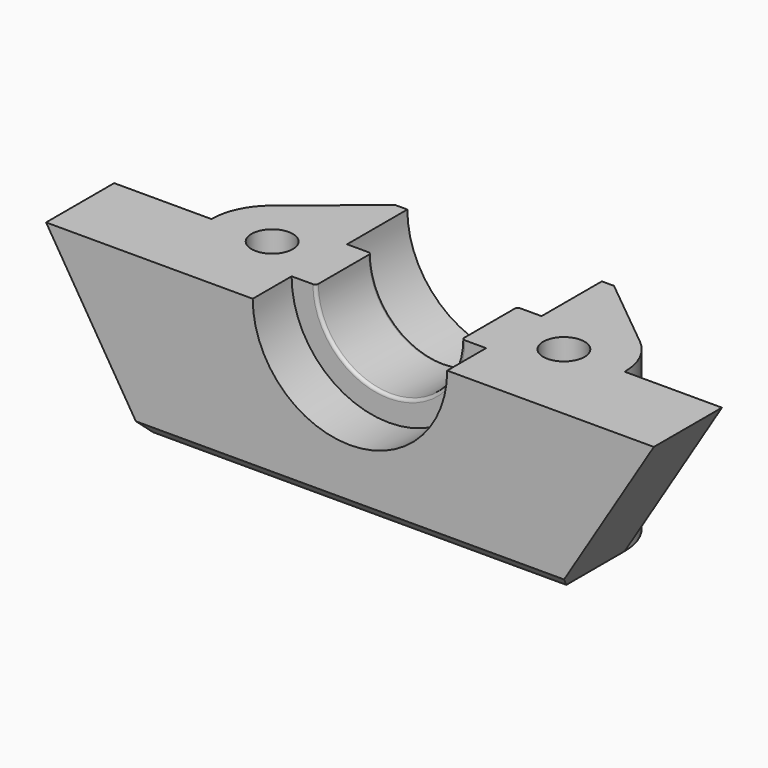
from build123d import *

# Parameters (mm, degrees)
CYLINDER005_R          = 1.7
CYLINDER005_DEPTH      = 20
CYLINDER004_R          = 1.7
CYLINDER004_DEPTH      = 36.75
CYLINDER003_R          = 1.7
CYLINDER003_DEPTH      = 39.75
CYLINDER006_R          = 1.7
CYLINDER006_DEPTH      = 20
CYLINDER001_R          = 8
CYLINDER001_DEPTH      = 5
CYLINDER001_ROLL_ANGLE = -90
CYLINDER_R             = 6
CYLINDER_DEPTH         = 30
CYLINDER_ROLL_ANGLE    = -90
CYLINDER002_R          = 8
CYLINDER002_DEPTH      = 12
CYLINDER002_ROLL_ANGLE = -90
BOX_W                  = 50
BOX_H                  = 15.9
BOX_DEPTH              = 13
POCKET_DEPTH           = 121.108539
CHAMFER_SIZE           = 4
FILLET_R               = 1
POCKET001_DEPTH        = 115.108539
CHAMFER001_SIZE        = 1
CHAMFER002_SIZE        = 0.5
FILLET001_R            = 0.25


with BuildPart() as cilindro005:
    # Cylinder005 → Cylinder005 (new body)
    with BuildSketch(Plane(origin=(-12, 7, 11), x_dir=(1, 0, 0), z_dir=(0, 0, 1))):
        Circle(CYLINDER005_R)
    extrude(amount=CYLINDER005_DEPTH)


with BuildPart() as cilindro004:
    # Cylinder004 → Cylinder004 (new body)
    with BuildSketch(Plane(origin=(-12, 7, 0), x_dir=(1, 0, 0), z_dir=(0, 0, 1))):
        Circle(CYLINDER004_R)
    extrude(amount=CYLINDER004_DEPTH)


with BuildPart() as cilindro003:
    # Cylinder003 → Cylinder003 (new body)
    with BuildSketch(Plane(origin=(12, 7, 0), x_dir=(1, 0, 0), z_dir=(0, 0, 1))):
        Circle(CYLINDER003_R)
    extrude(amount=CYLINDER003_DEPTH)


with BuildPart() as tornillos:
    # Cylinder006 → Cylinder006 (new body)
    with BuildSketch(Plane(origin=(12, 7, 11), x_dir=(1, 0, 0), z_dir=(0, 0, 1))):
        Circle(CYLINDER006_R)
    extrude(amount=CYLINDER006_DEPTH)

    # Fusion001: union Cilindro005, Cilindro004, Cilindro003
    add(cilindro005.part)
    add(cilindro004.part)
    add(cilindro003.part)


with BuildPart() as cilindro001:
    # Cylinder001 → Cylinder001 (new body)
    with BuildSketch(Plane.XY):
        Circle(CYLINDER001_R)
    extrude(amount=CYLINDER001_DEPTH)


with BuildPart() as cilindro001_1:
    # Cylinder001 roll: moved
    add(cilindro001.part.rotate(Axis((0, 0, 0), (1, 0, 0)), CYLINDER001_ROLL_ANGLE))


with BuildPart() as cilindro001_2:
    # Cylinder001 placement: moved
    add(cilindro001_1.part.moved(Location((0, -1, 13))))


with BuildPart() as cilindro:
    # Cylinder → Cylinder (new body)
    with BuildSketch(Plane.XY):
        Circle(CYLINDER_R)
    extrude(amount=CYLINDER_DEPTH)


with BuildPart() as cilindro_1:
    # Cylinder roll: moved
    add(cilindro.part.rotate(Axis((0, 0, 0), (1, 0, 0)), CYLINDER_ROLL_ANGLE))


with BuildPart() as cilindro_2:
    # Cylinder placement: moved
    add(cilindro_1.part.moved(Location((0, -5, 13))))


with BuildPart() as cabeza_hot_end:
    # Cylinder002 → Cylinder002 (new body)
    with BuildSketch(Plane.XY):
        Circle(CYLINDER002_R)
    extrude(amount=CYLINDER002_DEPTH)


with BuildPart() as cabeza_hot_end_1:
    # Cylinder002 roll: moved
    add(cabeza_hot_end.part.rotate(Axis((0, 0, 0), (1, 0, 0)), CYLINDER002_ROLL_ANGLE))


with BuildPart() as cabeza_hot_end_2:
    # Cylinder002 placement: moved
    add(cabeza_hot_end_1.part.moved(Location((0, 9.7, 13))))

    # Fusion: union Cilindro001, Cilindro
    add(cilindro001_2.part)
    add(cilindro_2.part)


with BuildPart() as fillet001:
    # Box → Box (new body)
    with BuildSketch(Plane(origin=(-25, 0, 0), x_dir=(1, 0, 0), z_dir=(0, 0, 1))):
        with Locations((25, 7.95)):
            Rectangle(BOX_W, BOX_H)
    extrude(amount=BOX_DEPTH)

    # Cut: cut cabeza_hot_end
    add(cabeza_hot_end_2.part, mode=Mode.SUBTRACT)

    # Cut001: cut tornillos
    add(tornillos.part, mode=Mode.SUBTRACT)

    # Sketch → Pocket (cut, through all)
    with BuildSketch(Plane.XY.offset(13)):
        with BuildLine():
            ThreePointArc((17, 7), (16.5168, 9.144415), (15.160594, 10.874357))
            Line((9, 15.9), (15.160594, 10.874357))
            Line((25, 15.9), (9, 15.9))
            Line((25, 7), (25, 15.9))
            Line((17, 7), (25, 7))
        make_face()
    pocket = extrude(amount=-POCKET_DEPTH, mode=Mode.SUBTRACT)

    # Mirrored: Pocket across Sketch V_Axis
    add(pocket.mirror(Plane(origin=(0, 0, 13), x_dir=(0, 0, 1), z_dir=(1, 0, 0))), mode=Mode.SUBTRACT)

    # Chamfer
    chamfer_edges = [fillet001.edges().sort_by_distance(p)[0] for p in [
        (0, 15.9, 0),
    ]]
    chamfer(chamfer_edges, length=CHAMFER_SIZE)

    # Fillet
    fillet_edges = [fillet001.edges().sort_by_distance(p)[0] for p in [
        (11.451664, 13.9, 2),
        (-11.451664, 13.9, 2),
    ]]
    fillet(fillet_edges, radius=FILLET_R)

    # Sketch002 → Pocket001 (cut, through all)
    with BuildSketch(Plane(origin=(0, 7, 0), x_dir=(-1, 0, 0), z_dir=(0, 1, 0))):
        Polygon((-25, 13), (-17, 0), (-25, 0), align=None)
    pocket001 = extrude(amount=-POCKET001_DEPTH, mode=Mode.SUBTRACT)

    # Mirrored001: Pocket001 across Sketch002 V_Axis
    add(pocket001.mirror(Plane(origin=(0, 7, 0), x_dir=(0, 1, 0), z_dir=(-1, 0, 0))), mode=Mode.SUBTRACT)

    # Chamfer001
    chamfer001_edges = [fillet001.edges().sort_by_distance(p)[0] for p in [
        (0, 0, 0),
    ]]
    chamfer(chamfer001_edges, length=CHAMFER001_SIZE)

    # Chamfer002
    chamfer002_edges = [fillet001.edges().sort_by_distance(p)[0] for p in [
        (10.3, 7, 0),
        (-13.7, 7, 0),
    ]]
    chamfer(chamfer002_edges, length=CHAMFER002_SIZE)

    # Fillet001
    fillet001_edges = [fillet001.edges().sort_by_distance(p)[0] for p in [
        (0, 9.7, 7),
        (0, 4, 7),
    ]]
    fillet(fillet001_edges, radius=FILLET001_R)


solid = fillet001.part
